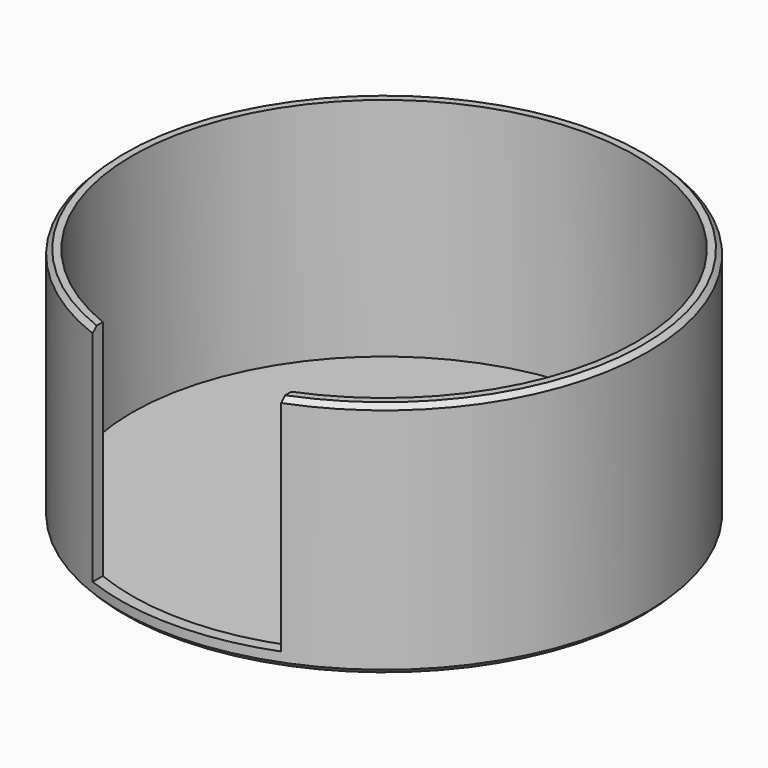
from build123d import *

# Parameters (mm, degrees)
F0_R     = 55.5
F1_DEPTH = 50
F2_T     = -2.5
F4_DEPTH = 47
F5_SIZE  = 1


with BuildPart() as f1:
    # F0 (on Top) → F1 (new body)
    with BuildSketch(Plane.XY):
        Circle(F0_R)
    extrude(amount=F1_DEPTH)

    # F2
    f2_openings = [f1.faces().sort_by_distance(p)[0] for p in [
        (0, 0, 50),
    ]]
    offset(amount=F2_T, openings=f2_openings)

    # F3 (on face) → F4 (cut)
    with BuildSketch(Plane.XY.offset(50)):
        with BuildLine():
            ThreePointArc((19.8165141046, -51.841641262), (0, -55.5), (-19.8165141046, -51.841641262))
            Line((-19.8165141046, -51.841641262), (-19.8165141046, -57.2821125388))
            Line((-19.8165141046, -57.2821125388), (0, -57.2821125388))
            Line((0, -57.2821125388), (19.8165141046, -57.2821125388))
            Line((19.8165141046, -57.2821125388), (19.8165141046, -51.841641262))
        make_face()
        with BuildLine():
            ThreePointArc((19.8165141046, -49.1559331998), (0, -53), (-19.8165141046, -49.1559331998))
            Line((-19.8165141046, -49.1559331998), (-19.8165141046, -51.841641262))
            ThreePointArc((-19.8165141046, -51.841641262), (0, -55.5), (19.8165141046, -51.841641262))
            Line((19.8165141046, -51.841641262), (19.8165141046, -49.1559331998))
        make_face()
    extrude(amount=-F4_DEPTH, mode=Mode.SUBTRACT)

    # F5
    f5_edges = [f1.edges().sort_by_distance(p)[0] for p in [
        (-55.5, 0, 0),
        (-31.467709, 45.716882, 50),
    ]]
    chamfer(f5_edges, length=F5_SIZE)


solid = f1.part
